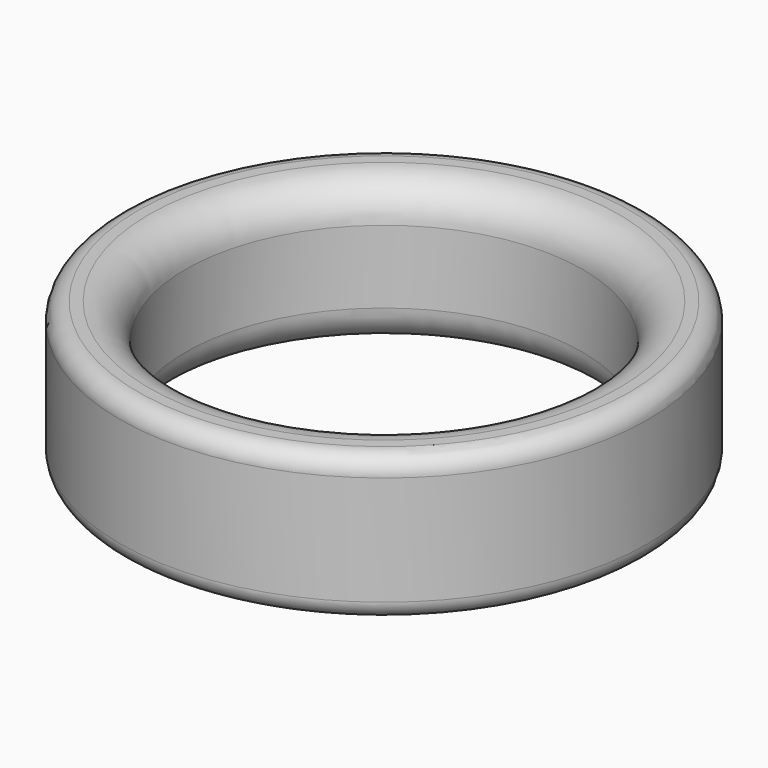
from build123d import *

# Parameters (mm, degrees)
F0_W = 4.572
F0_H = 10.16
F2_R = 2.54
F3_R = 1.27


with BuildPart() as f1:
    # F0 (on Front) → F1 (revolve)
    with BuildSketch(Plane.XZ):
        with Locations((15.7638760562, 7.8567868348)):
            Rectangle(F0_W, F0_H)
    revolve(axis=Axis((-0.3651239438, 0, 7.8567868348), (0, 0, -1)))

    # F2
    f2_edges = [f1.edges().sort_by_distance(p)[0] for p in [
        (-14.208124, 0, 12.936787),
        (-14.208124, 0, 2.776787),
    ]]
    fillet(f2_edges, radius=F2_R)

    # F3
    f3_edges = [f1.edges().sort_by_distance(p)[0] for p in [
        (-18.780124, 0, 12.936787),
        (-18.780124, 0, 2.776787),
    ]]
    fillet(f3_edges, radius=F3_R)


solid = f1.part
